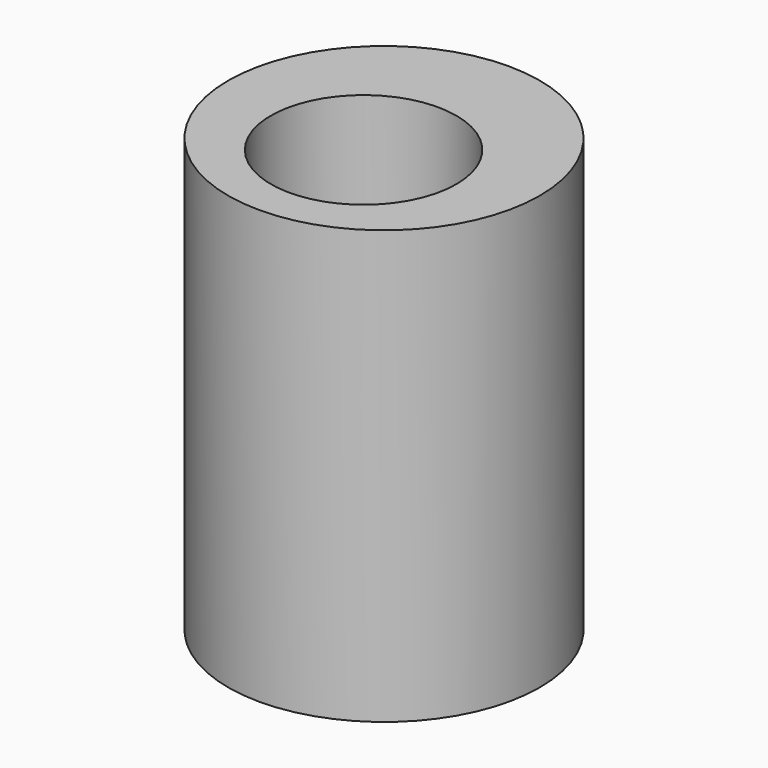
from build123d import *

# Parameters (mm, degrees)
F0_R     = 27.430912
F0_R_2   = 16.328028
F1_DEPTH = 76.2


with BuildPart() as f1:
    # F0 (on Top) → F1 (new body)
    with BuildSketch(Plane.XY):
        with Locations((0, 4.488104)):
            Circle(F0_R)
        Circle(F0_R_2, mode=Mode.SUBTRACT)
    extrude(amount=F1_DEPTH)


solid = f1.part
